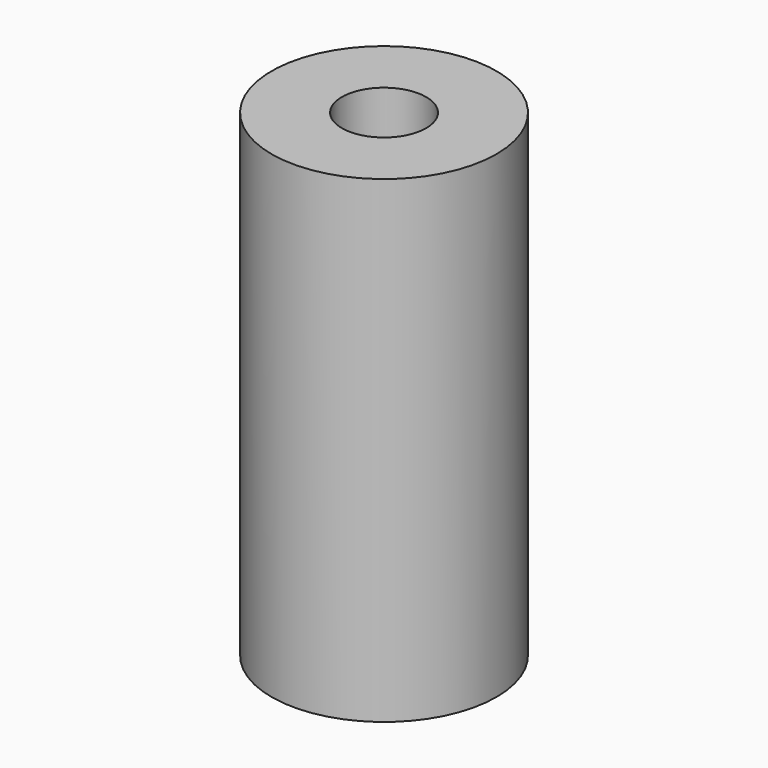
from build123d import *

# Parameters (mm, degrees)
SKETCH004_R     = 4
PAD002_DEPTH    = 17
SKETCH005_R     = 1.5
POCKET002_DEPTH = 8
POCKET003_DEPTH = 8


with BuildPart() as part:
    # Sketch004 → Pad002 (new body)
    with BuildSketch(Plane.XY):
        Circle(SKETCH004_R)
    extrude(amount=PAD002_DEPTH)

    # Sketch005 → Pocket002 (cut)
    with BuildSketch(Plane.XY.offset(17)):
        Circle(SKETCH005_R)
    extrude(amount=-POCKET002_DEPTH, mode=Mode.SUBTRACT)

    # Sketch006 → Pocket003 (cut)
    with BuildSketch(Plane(origin=(0, 0, 0), x_dir=(1, 0, 0), z_dir=(0, 0, -1))):
        Polygon((-0.95, 2.5), (0.95, 2.5), (0.95, 0.95), (2.5, 0.95), (2.5, -0.95), (0.95, -0.95), (0.95, -2.5), (-0.95, -2.5), (-0.95, -0.95), (-2.5, -0.95), (-2.5, 0.95), (-0.95, 0.95), align=None)
    extrude(amount=-POCKET003_DEPTH, mode=Mode.SUBTRACT)


solid = part.part
